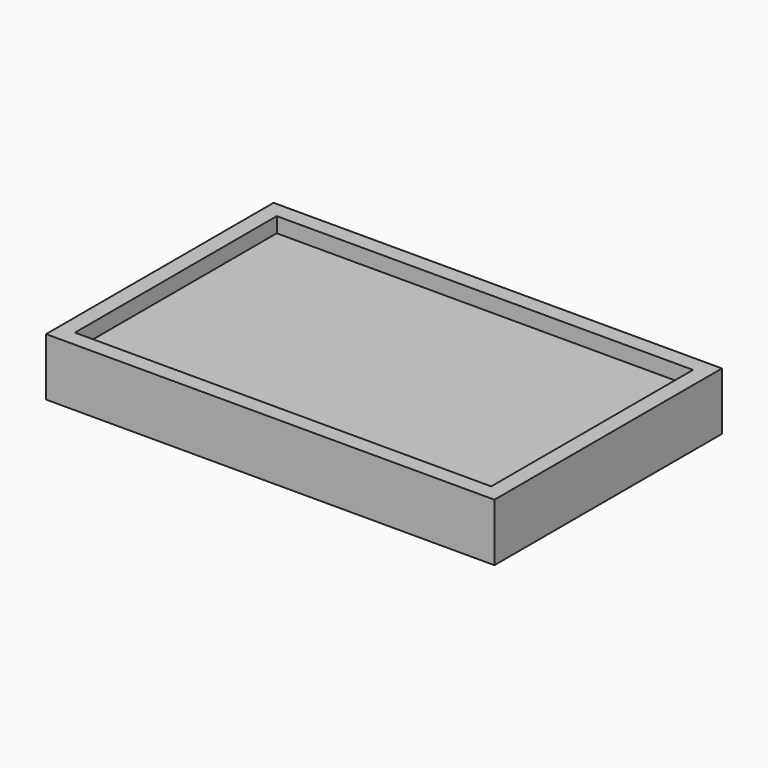
from build123d import *

# Parameters (mm, degrees)
F0_R      = 1.397
F1_DEPTH  = 1.6002
F2_R      = 3.175
F2_R_2    = 1.397
F3_DEPTH  = 7.62
F4_DEPTH  = 7.62
F5_DEPTH  = 7.62
F6_DEPTH  = 7.62
F7_W      = 177.699999
F7_H      = 112.699999
F8_DEPTH  = 22.86
F9_W      = 165
F9_H      = 100
F10_DEPTH = 6


with BuildPart() as f1:
    # F0 (on Top) → F1 (new body)
    with BuildSketch(Plane.XY):
        with BuildLine():
            ThreePointArc((-10.771206, -7.132443), (-9.892526, -9.253763), (-7.771206, -10.132443))
            Line((-7.771206, -10.132443), (71.228794, -10.132443))
            ThreePointArc((71.228794, -10.132443), (73.350115, -9.253763), (74.228794, -7.132443))
            Line((74.228794, -7.132443), (74.228794, 42.867557))
            ThreePointArc((74.228794, 42.867557), (73.350115, 44.988878), (71.228794, 45.867557))
            Line((71.228794, 45.867557), (-7.771206, 45.867557))
            ThreePointArc((-7.771206, 45.867557), (-9.892526, 44.988878), (-10.771206, 42.867557))
            Line((-10.771206, 42.867557), (-10.771206, 17.867557))
            Line((-10.771206, 17.867557), (-10.771206, -7.132443))
        make_face()
        with Locations((-7.271206, -6.459374)):
            Circle(F0_R, mode=Mode.SUBTRACT)
        with Locations((50.728794, -6.459374)):
            Circle(F0_R, mode=Mode.SUBTRACT)
        with Locations((-7.271206, 42.540626)):
            Circle(F0_R, mode=Mode.SUBTRACT)
        with Locations((50.728794, 42.540626)):
            Circle(F0_R, mode=Mode.SUBTRACT)
    extrude(amount=F1_DEPTH)


with BuildPart() as f3:
    # F2 (on face) → F3 (new body)
    with BuildSketch(Plane.XY.offset(1.6002)):
        with Locations((-7.271206, 42.540626)):
            Circle(F2_R)
        with Locations((-7.271206, 42.540626)):
            Circle(F2_R_2, mode=Mode.SUBTRACT)
    extrude(amount=F3_DEPTH)


with BuildPart() as f4:
    # F2 (on face) → F4 (new body)
    with BuildSketch(Plane.XY.offset(1.6002)):
        with Locations((-7.271206, -6.459374)):
            Circle(F2_R)
        with Locations((-7.271206, -6.459374)):
            Circle(F2_R_2, mode=Mode.SUBTRACT)
    extrude(amount=F4_DEPTH)


with BuildPart() as f5:
    # F2 (on face) → F5 (new body)
    with BuildSketch(Plane.XY.offset(1.6002)):
        with Locations((50.728794, 42.540626)):
            Circle(F2_R)
        with Locations((50.728794, 42.540626)):
            Circle(F2_R_2, mode=Mode.SUBTRACT)
    extrude(amount=F5_DEPTH)


with BuildPart() as f6:
    # F2 (on face) → F6 (new body)
    with BuildSketch(Plane.XY.offset(1.6002)):
        with Locations((50.728794, -6.459374)):
            Circle(F2_R)
        with Locations((50.728794, -6.459374)):
            Circle(F2_R_2, mode=Mode.SUBTRACT)
    extrude(amount=F6_DEPTH)


with BuildPart() as f8:
    # F7 (on face) → F8 (new body)
    with BuildSketch(Plane.XY.offset(9.2202)):
        with Locations((21.728794, 18.040626)):
            Rectangle(F7_W, F7_H)
    extrude(amount=F8_DEPTH)

    # F9 (on face) → F10 (cut)
    with BuildSketch(Plane.XY.offset(32.0802)):
        with Locations((21.728794, 18.040626)):
            Rectangle(F9_W, F9_H)
    extrude(amount=-F10_DEPTH, mode=Mode.SUBTRACT)


solid = Compound([f1.part, f3.part, f4.part, f5.part, f6.part, f8.part])
